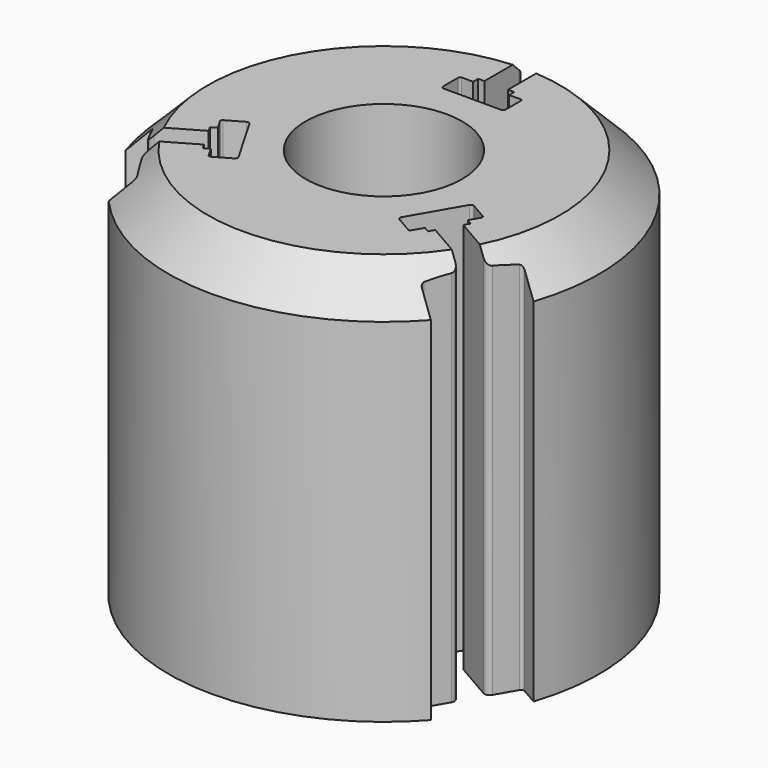
from build123d import *

# Parameters (mm, degrees)
SKETCH_R     = 27.5
SKETCH_R_2   = 10
PAD_DEPTH    = 50
CHAMFER_SIZE = 5
POCKET_DEPTH = 50.001


with BuildPart() as part:
    # Sketch → Pad (new body)
    with BuildSketch(Plane.XY):
        Circle(SKETCH_R)
        Circle(SKETCH_R_2, mode=Mode.SUBTRACT)
    extrude(amount=PAD_DEPTH)

    # Chamfer
    chamfer_edges = [part.edges().sort_by_distance(p)[0] for p in [
        (-27.5, 0, 50),
    ]]
    chamfer(chamfer_edges, length=CHAMFER_SIZE)

    # Sketch001 → Pocket (cut, through all)
    with BuildSketch(Plane(origin=(0, 0, 0), x_dir=(1, 0, 0), z_dir=(0, 0, -1))):
        with BuildLine():
            Line((5.5, -27.883587), (5.5, -24.511159))
            ThreePointArc((5.5, -24.511159), (5.385432, -24.234568), (5.108841, -24.12))
            Line((5.108841, -24.12), (2.186238, -24.12))
            ThreePointArc((1.5, -23.433762), (1.700994, -23.919006), (2.186238, -24.12))
            Line((1.5, -23.433762), (1.5, -17.926959))
            Line((1.5, -17.926959), (2.294017, -17.926959))
            Line((2.294017, -17.926959), (2.294017, -17.12))
            Line((2.294017, -17.12), (3.752143, -17.12))
            ThreePointArc((3.752143, -17.12), (3.927404, -17.047404), (4, -16.872143))
            Line((4, -16.872143), (4, -14.488966))
            ThreePointArc((4, -14.488966), (3.891932, -14.228068), (3.631034, -14.12))
            Line((3.631034, -14.12), (-3.631034, -14.12))
            ThreePointArc((-3.631034, -14.12), (-3.891932, -14.228068), (-4, -14.488966))
            Line((-4, -16.872143), (-4, -14.488966))
            ThreePointArc((-4, -16.872143), (-3.927404, -17.047404), (-3.752143, -17.12))
            Line((-3.752143, -17.12), (-2.294017, -17.12))
            Line((-2.294017, -17.926959), (-2.294017, -17.12))
            Line((-2.294017, -17.926959), (-1.5, -17.926959))
            Line((-1.5, -23.433762), (-1.5, -17.926959))
            ThreePointArc((-2.186238, -24.12), (-1.700994, -23.919006), (-1.5, -23.433762))
            Line((-5.108841, -24.12), (-2.186238, -24.12))
            ThreePointArc((-5.108841, -24.12), (-5.385432, -24.234568), (-5.5, -24.511159))
            Line((-5.5, -27.883587), (-5.5, -24.511159))
            Line((-5.5, -27.883587), (5.5, -27.883587))
        make_face()
        with BuildLine():
            Line((21.397895, 18.704933), (18.477287, 17.018719))
            ThreePointArc((18.477287, 17.018719), (18.295036, 16.781205), (18.334112, 16.484386))
            Line((18.334112, 16.484386), (19.795414, 13.953338))
            ThreePointArc((19.544233, 13.01592), (19.863969, 13.432608), (19.795414, 13.953338))
            Line((19.544233, 13.01592), (14.775202, 10.262518))
            Line((14.775202, 10.262518), (14.378193, 10.950156))
            Line((14.378193, 10.950156), (13.679346, 10.546677))
            Line((13.679346, 10.546677), (12.950283, 11.809451))
            ThreePointArc((12.950283, 11.809451), (12.799783, 11.924934), (12.611704, 11.900173))
            Line((12.611704, 11.900173), (10.547813, 10.708585))
            ThreePointArc((10.547813, 10.708585), (10.375902, 10.484546), (10.412762, 10.204568))
            Line((10.412762, 10.204568), (14.043796, 3.915432))
            ThreePointArc((14.043796, 3.915432), (14.267834, 3.743521), (14.547813, 3.780381))
            Line((16.611705, 4.971969), (14.547813, 3.780381))
            ThreePointArc((16.611705, 4.971969), (16.727187, 5.12247), (16.702426, 5.310548))
            Line((16.702426, 5.310548), (15.973363, 6.573323))
            Line((16.67221, 6.976803), (15.973363, 6.573323))
            Line((16.67221, 6.976803), (16.275202, 7.664442))
            Line((21.044233, 10.417843), (16.275202, 7.664442))
            ThreePointArc((21.981652, 10.166663), (21.564963, 10.486398), (21.044233, 10.417843))
            Line((23.442954, 7.635614), (21.981652, 10.166663))
            ThreePointArc((23.442954, 7.635614), (23.680468, 7.453363), (23.977287, 7.492439))
            Line((26.897895, 9.178654), (23.977287, 7.492439))
            Line((26.897895, 9.178654), (21.397895, 18.704933))
        make_face()
        with BuildLine():
            Line((-26.897895, 9.178654), (-23.977287, 7.492439))
            ThreePointArc((-23.977287, 7.492439), (-23.680468, 7.453363), (-23.442954, 7.635614))
            Line((-23.442954, 7.635614), (-21.981652, 10.166662))
            ThreePointArc((-21.044233, 10.417843), (-21.564964, 10.486398), (-21.981652, 10.166662))
            Line((-21.044233, 10.417843), (-16.275202, 7.664441))
            Line((-16.275202, 7.664441), (-16.67221, 6.976803))
            Line((-16.67221, 6.976803), (-15.973363, 6.573323))
            Line((-15.973363, 6.573323), (-16.702426, 5.310548))
            ThreePointArc((-16.702426, 5.310548), (-16.727188, 5.12247), (-16.611705, 4.971969))
            Line((-16.611705, 4.971969), (-14.547813, 3.780381))
            ThreePointArc((-14.547813, 3.780381), (-14.267835, 3.743521), (-14.043796, 3.915432))
            Line((-14.043796, 3.915432), (-10.412762, 10.204568))
            ThreePointArc((-10.412762, 10.204568), (-10.375902, 10.484547), (-10.547813, 10.708585))
            Line((-12.611705, 11.900174), (-10.547813, 10.708585))
            ThreePointArc((-12.611705, 11.900174), (-12.799783, 11.924935), (-12.950284, 11.809451))
            Line((-12.950284, 11.809451), (-13.679346, 10.546677))
            Line((-14.378193, 10.950156), (-13.679346, 10.546677))
            Line((-14.378193, 10.950156), (-14.775202, 10.262518))
            Line((-19.544233, 13.015919), (-14.775202, 10.262518))
            ThreePointArc((-19.795414, 13.953338), (-19.863969, 13.432608), (-19.544233, 13.015919))
            Line((-18.334112, 16.484386), (-19.795414, 13.953338))
            ThreePointArc((-18.334112, 16.484386), (-18.295036, 16.781205), (-18.477287, 17.018719))
            Line((-21.397895, 18.704933), (-18.477287, 17.018719))
            Line((-21.397895, 18.704933), (-26.897895, 9.178654))
        make_face()
    extrude(amount=-POCKET_DEPTH, mode=Mode.SUBTRACT)


solid = part.part
